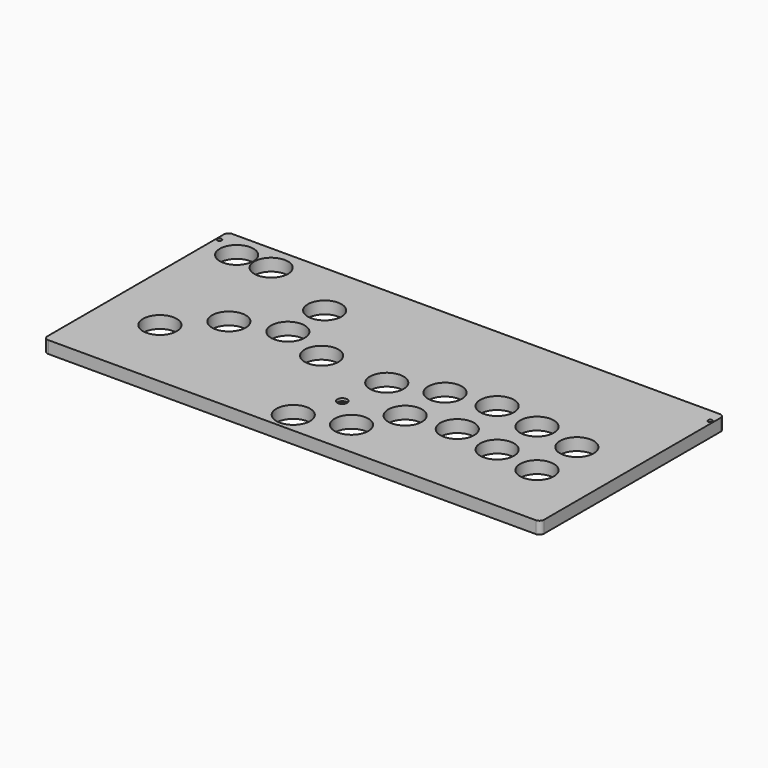
from build123d import *

# Parameters (mm, degrees)
PAD002_DEPTH  = 8
SKETCH008_R   = 11
HOLE001_DEPTH = 8
SKETCH009_R   = 1.4
HOLE002_DEPTH = 8
SKETCH010_R   = 3.25
HOLE003_DEPTH = 1.7


with BuildPart() as part:
    # Sketch007 → Pad002 (new body)
    with BuildSketch(Plane.XY):
        with BuildLine():
            Line((-159, -1), (159, -1))
            ThreePointArc((162, -4), (161.12132, -1.87868), (159, -1))
            Line((162, -4), (162, -148))
            ThreePointArc((159, -151), (161.12132, -150.12132), (162, -148))
            Line((159, -151), (-159, -151))
            ThreePointArc((-162, -148), (-161.12132, -150.12132), (-159, -151))
            Line((-162, -148), (-162, -4))
            ThreePointArc((-159, -1), (-161.12132, -1.87868), (-162, -4))
        make_face()
    extrude(amount=PAD002_DEPTH)

    # Sketch008 → Hole001 (cut)
    with BuildSketch(Plane.XY):
        with Locations((-142.75, -17.7)):
            Circle(SKETCH008_R)
        with Locations((-120.25, -17.7)):
            Circle(SKETCH008_R)
        with Locations((-69.5, -37.5)):
            Circle(SKETCH008_R)
        with Locations((-69.5, -67.5)):
            Circle(SKETCH008_R)
        with Locations((-100, -77.5)):
            Circle(SKETCH008_R)
        with Locations((-125, -102.5)):
            Circle(SKETCH008_R)
        with Locations((-39.5, -77.5)):
            Circle(SKETCH008_R)
        with Locations((5, -80)):
            Circle(SKETCH008_R)
        with Locations((35, -70)):
            Circle(SKETCH008_R)
        with Locations((65, -65)):
            Circle(SKETCH008_R)
        with Locations((95, -70)):
            Circle(SKETCH008_R)
        with Locations((125, -75)):
            Circle(SKETCH008_R)
        with Locations((-10, -137.5)):
            Circle(SKETCH008_R)
        with Locations((20, -127.5)):
            Circle(SKETCH008_R)
        with Locations((35, -102.5)):
            Circle(SKETCH008_R)
        with Locations((65, -97.5)):
            Circle(SKETCH008_R)
        with Locations((95, -102.5)):
            Circle(SKETCH008_R)
        with Locations((125, -107.5)):
            Circle(SKETCH008_R)
    extrude(amount=HOLE001_DEPTH, mode=Mode.SUBTRACT)

    # Sketch009 → Hole002 (cut)
    with BuildSketch(Plane.XY):
        with Locations((0, -210)):
            Circle(SKETCH009_R)
        with Locations((160, -210)):
            Circle(SKETCH009_R)
        with Locations((160, -10)):
            Circle(SKETCH009_R)
        with Locations((-160, -210)):
            Circle(SKETCH009_R)
        with Locations((-160, -10)):
            Circle(SKETCH009_R)
        with Locations((0, -110)):
            Circle(SKETCH009_R)
    extrude(amount=HOLE002_DEPTH, mode=Mode.SUBTRACT)

    # Sketch010 → Hole003 (cut)
    with BuildSketch(Plane(origin=(0, 0, 8), x_dir=(-1, 0, 0), z_dir=(0, 0, 1))):
        with Locations((0, 110)):
            Circle(SKETCH010_R)
    extrude(amount=-HOLE003_DEPTH, mode=Mode.SUBTRACT)


with BuildPart() as part_1:
    # Body001 placement: moved
    add(part.part.moved(Location((0, 0, 6.71))))


solid = part_1.part
